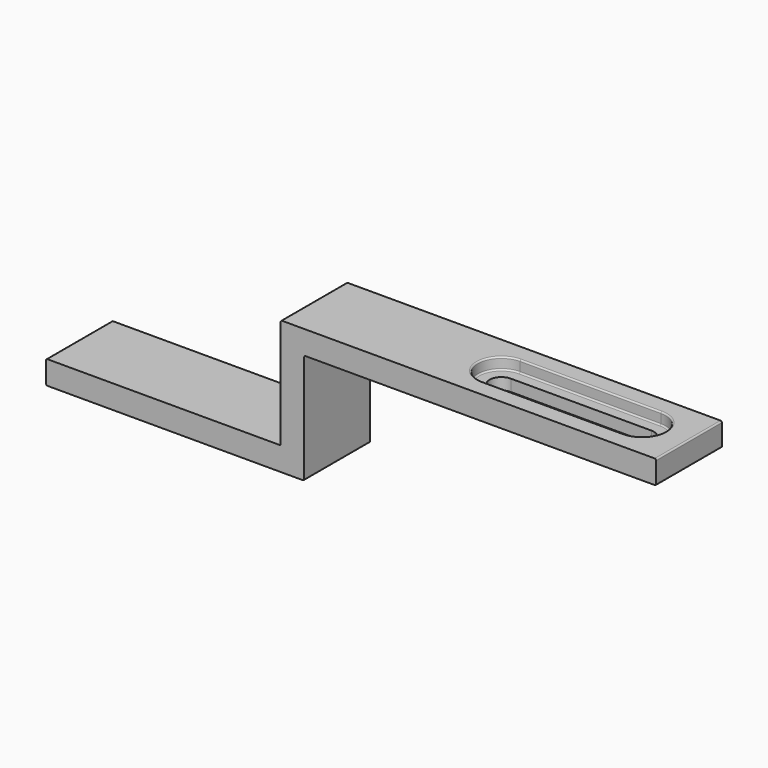
from build123d import *

# Parameters (mm, degrees)
F0_W      = 86
F0_H      = 14
F1_DEPTH  = 4
F3_DEPTH  = 4
F5_DEPTH  = 2
F6_R      = 0.25
F7_W      = 21.9838
F7_H      = 14
F8_DEPTH  = 4
F9_W      = 4
F9_H      = 14
F10_DEPTH = 18.7753
F11_W     = 14
F11_H     = 4
F12_DEPTH = 40.005
F13_R     = 0.25


with BuildPart() as f1:
    # F0 (on Top) → F1 (new body)
    with BuildSketch(Plane.XY):
        Rectangle(F0_W, F0_H)
    extrude(amount=F1_DEPTH)

    # F2 (on face) → F3 (cut)
    with BuildSketch(Plane.XY.offset(4)):
        with BuildLine():
            ThreePointArc((35, -2), (36.4142139414, -1.4142137697), (37.0000005863, 0))
            ThreePointArc((37.0000005863, 0), (36.4142139414, 1.4142137697), (35, 2))
            Line((35, 2), (35, -2))
        make_face()
        with BuildLine():
            Line((35, -2), (35, 2))
            ThreePointArc((35, 2), (33.0000005863, 0), (35, -2))
        make_face()
        with BuildLine():
            ThreePointArc((35, -2), (33.0000005863, 0), (35, 2))
            Line((35, 2), (11, 2))
            ThreePointArc((11, 2), (12.4142135624, 1.4142135624), (13, 0))
            ThreePointArc((13, 0), (12.4142135624, -1.4142135624), (11, -2))
            Line((11, -2), (35, -2))
        make_face()
        with BuildLine():
            Line((11, -2), (11, 2))
            ThreePointArc((11, 2), (9, 0), (11, -2))
        make_face()
        with BuildLine():
            ThreePointArc((13, 0), (12.4142135624, 1.4142135624), (11, 2))
            Line((11, 2), (11, -2))
            ThreePointArc((11, -2), (12.4142135624, -1.4142135624), (13, 0))
        make_face()
    extrude(amount=-F3_DEPTH, mode=Mode.SUBTRACT)

    # F4 (on face) → F5 (cut)
    with BuildSketch(Plane.XY.offset(4)):
        with BuildLine():
            ThreePointArc((35.0000005863, -4), (37.8284277111, -2.8284271247), (39.0000005863, 0))
            ThreePointArc((39.0000005863, 0), (37.8284277111, 2.8284271247), (35.0000005863, 4))
            Line((35.0000005863, 4), (35.0000005863, -4))
        make_face()
        with BuildLine():
            Line((35.0000005863, -4), (35.0000005863, 4))
            ThreePointArc((35.0000005863, 4), (31.0000005863, 0), (35.0000005863, -4))
        make_face()
        with BuildLine():
            ThreePointArc((35.0000005863, -4), (31.0000005863, 0), (35.0000005863, 4))
            Line((35.0000005863, 4), (11.0000005863, 4))
            ThreePointArc((11.0000005863, 4), (13.828427332, 2.8284269175), (15, 0))
            ThreePointArc((15, 0), (13.828427332, -2.8284269175), (11.0000005863, -4))
            Line((11.0000005863, -4), (35.0000005863, -4))
        make_face()
        with BuildLine():
            Line((11.0000005863, -4), (11.0000005863, 4))
            ThreePointArc((11.0000005863, 4), (7, 0), (11.0000005863, -4))
        make_face()
        with BuildLine():
            ThreePointArc((15, 0), (13.828427332, 2.8284269175), (11.0000005863, 4))
            Line((11.0000005863, 4), (11.0000005863, -4))
            ThreePointArc((11.0000005863, -4), (13.828427332, -2.8284269175), (15, 0))
        make_face()
    extrude(amount=-F5_DEPTH, mode=Mode.SUBTRACT)

    # F6
    f6_edges = [f1.edges().sort_by_distance(p)[0] for p in [
        (23.000001, 4, 2),
        (7, 0, 2),
        (23.000001, -4, 2),
        (39.000001, 0, 2),
        (23.000001, -4, 4),
        (7, 0, 4),
        (23.000001, 4, 4),
        (39.000001, 0, 4),
    ]]
    fillet(f6_edges, radius=F6_R)

    # F7 (on face) → F8 (cut)
    with BuildSketch(Plane.XY.offset(4)):
        with Locations((-32.0081, 0)):
            Rectangle(F7_W, F7_H)
    extrude(amount=-F8_DEPTH, mode=Mode.SUBTRACT)

    # F9 (on face) → F10 (join)
    with BuildSketch(Plane(origin=(0, 0, 0), x_dir=(1, 0, 0), z_dir=(0, 0, -1))):
        with Locations((-19.0162, 0)):
            Rectangle(F9_W, F9_H)
    extrude(amount=F10_DEPTH)

    # F11 (on face) → F12 (join)
    with BuildSketch(Plane(origin=(-21.0162, 0, 0), x_dir=(0, -1, 0), z_dir=(-1, 0, 0))):
        with Locations((0, -16.7753)):
            Rectangle(F11_W, F11_H)
    extrude(amount=F12_DEPTH)

    # F13
    f13_edges = [f1.edges().sort_by_distance(p)[0] for p in [
        (-17.0162, 0, 0),
        (-17.0162, 0, -18.7753),
        (43, 0, 0),
        (43, 0, 4),
        (-21.0162, 0, -14.7753),
        (-21.0162, 0, 4),
        (-61.0212, 0, -14.7753),
        (-61.0212, 0, -18.7753),
    ]]
    fillet(f13_edges, radius=F13_R)


solid = f1.part
